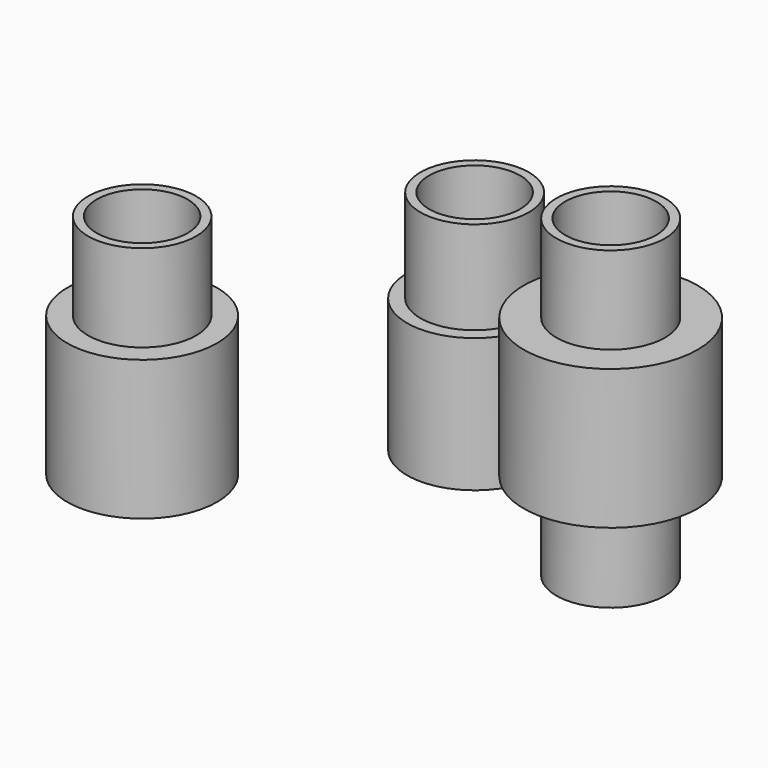
from build123d import *

# Parameters (mm, degrees)
F0_R     = 3.725
F0_R_2   = 3.125
F1_DEPTH = 15.6
F0_R_3   = 4.64
F2_DEPTH = 9.2
F3_R     = 3.73
F3_R_2   = 3.125
F4_DEPTH = 10.8
F3_R_3   = 5.975
F5_DEPTH = 4.8
F7_R     = 3.715
F7_R_2   = 3.125
F8_DEPTH = 15.6
F7_R_3   = 5.15
F9_DEPTH = 9.6


with BuildPart() as f1:
    # F0 (on Top) → F1 (new body)
    with BuildSketch(Plane.XY):
        Circle(F0_R)
        Circle(F0_R_2, mode=Mode.SUBTRACT)
    extrude(amount=F1_DEPTH)

    # F0 (on Top) → F2 (join)
    with BuildSketch(Plane.XY):
        Circle(F0_R_3)
        Circle(F0_R, mode=Mode.SUBTRACT)
    extrude(amount=F2_DEPTH)


with BuildPart() as f4:
    # F3 (on Top) → F4 (new body, symmetric)
    with BuildSketch(Plane.XY):
        with Locations((14.783048, -6.802344)):
            Circle(F3_R)
        with Locations((14.783048, -6.802344)):
            Circle(F3_R_2, mode=Mode.SUBTRACT)
    extrude(amount=F4_DEPTH, both=True)

    # F3 (on Top) → F5 (join, symmetric)
    with BuildSketch(Plane.XY):
        with Locations((14.783048, -6.802344)):
            Circle(F3_R_3)
        with Locations((14.783048, -6.802344)):
            Circle(F3_R, mode=Mode.SUBTRACT)
    extrude(amount=F5_DEPTH, both=True)


with BuildPart() as f4_1:
    # F6: moved
    add(f4.part.moved(Location((0, 0, 10.8))))


with BuildPart() as f8:
    # F7 (on Top) → F8 (new body)
    with BuildSketch(Plane.XY):
        with Locations((-12.184543, -13.306896)):
            Circle(F7_R)
        with Locations((-12.184543, -13.306896)):
            Circle(F7_R_2, mode=Mode.SUBTRACT)
    extrude(amount=F8_DEPTH)

    # F7 (on Top) → F9 (join)
    with BuildSketch(Plane.XY):
        with Locations((-12.184543, -13.306896)):
            Circle(F7_R_3)
        with Locations((-12.184543, -13.306896)):
            Circle(F7_R, mode=Mode.SUBTRACT)
    extrude(amount=F9_DEPTH)


solid = Compound([f1.part, f4_1.part, f8.part])
